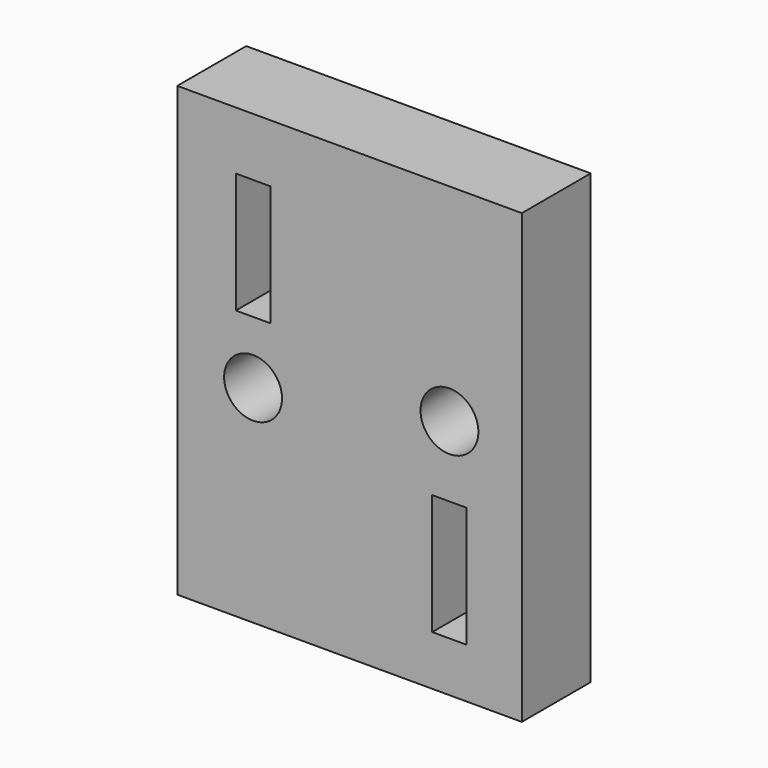
from build123d import *

# Parameters (mm, degrees)
BOX002_W        = 20
BOX002_H        = 5
BOX002_DEPTH    = 26
SKETCH_R        = 1.68
SKETCH_W        = 2
SKETCH_H        = 7
POCKET014_DEPTH = 5


with BuildPart() as part:
    # Box002 → Box002 (new body)
    with BuildSketch(Plane(origin=(20.8, -5, 0), x_dir=(1, 0, 0), z_dir=(0, 0, 1))):
        with Locations((10, 2.5)):
            Rectangle(BOX002_W, BOX002_H)
    extrude(amount=BOX002_DEPTH)

    # Sketch → Pocket014 (cut)
    with BuildSketch(Plane(origin=(20.8, -5, 0), x_dir=(1, 0, 0), z_dir=(0, -1, 0))):
        with Locations((4.4, 12)):
            Circle(SKETCH_R)
        with Locations((15.8, 14)):
            Circle(SKETCH_R)
        with Locations((4.4, 19.125)):
            Rectangle(SKETCH_W, SKETCH_H)
        with Locations((15.8, 6.4)):
            Rectangle(SKETCH_W, SKETCH_H)
    extrude(amount=-POCKET014_DEPTH, mode=Mode.SUBTRACT)


solid = part.part
